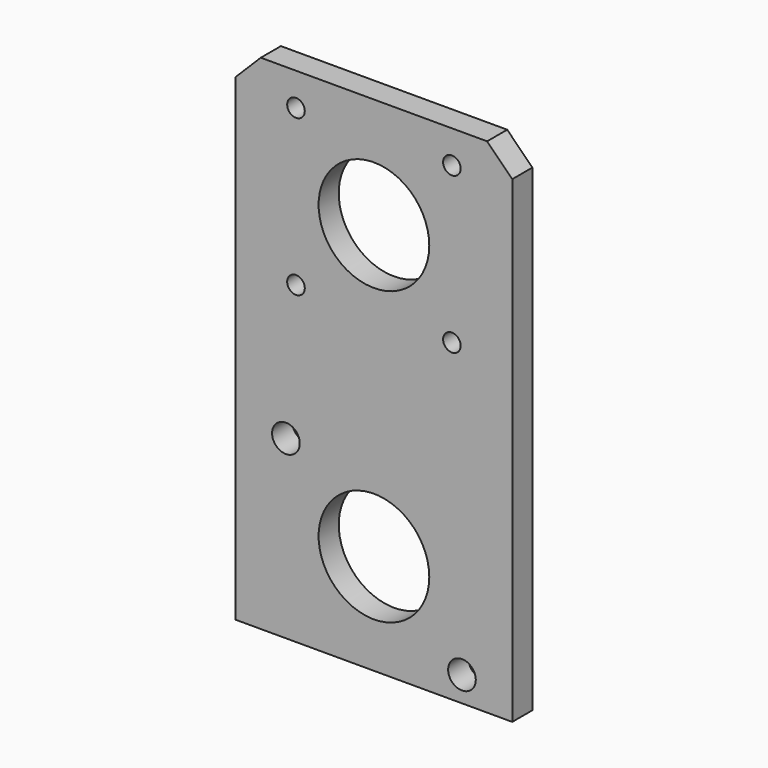
from build123d import *

# Parameters (mm, degrees)
F0_W     = 55
F0_H     = 100
F0_R     = 2.75
F0_R_2   = 11
F0_R_3   = 1.75
F1_DEPTH = 5
F2_SIZE  = 5
F3_SIZE  = 5


with BuildPart() as f1:
    # F0 (on Front) → F1 (new body)
    with BuildSketch(Plane.XZ):
        Rectangle(F0_W, F0_H)
        with Locations((-17.5, -15)):
            Circle(F0_R, mode=Mode.SUBTRACT)
        with Locations((0, -30)):
            Circle(F0_R_2, mode=Mode.SUBTRACT)
        with Locations((17.5, -45)):
            Circle(F0_R, mode=Mode.SUBTRACT)
        with Locations((-15.5, 12.5)):
            Circle(F0_R_3, mode=Mode.SUBTRACT)
        with Locations((-15.5, 43.5)):
            Circle(F0_R_3, mode=Mode.SUBTRACT)
        with Locations((15.5, 12.5)):
            Circle(F0_R_3, mode=Mode.SUBTRACT)
        with Locations((0, 28)):
            Circle(F0_R_2, mode=Mode.SUBTRACT)
        with Locations((15.5, 43.5)):
            Circle(F0_R_3, mode=Mode.SUBTRACT)
    extrude(amount=F1_DEPTH)

    # F2
    f2_edges = [f1.edges().sort_by_distance(p)[0] for p in [
        (-27.5, -2.5, 50),
    ]]
    chamfer(f2_edges, length=F2_SIZE)

    # F3
    f3_edges = [f1.edges().sort_by_distance(p)[0] for p in [
        (27.5, -2.5, 50),
    ]]
    chamfer(f3_edges, length=F3_SIZE)


solid = f1.part
